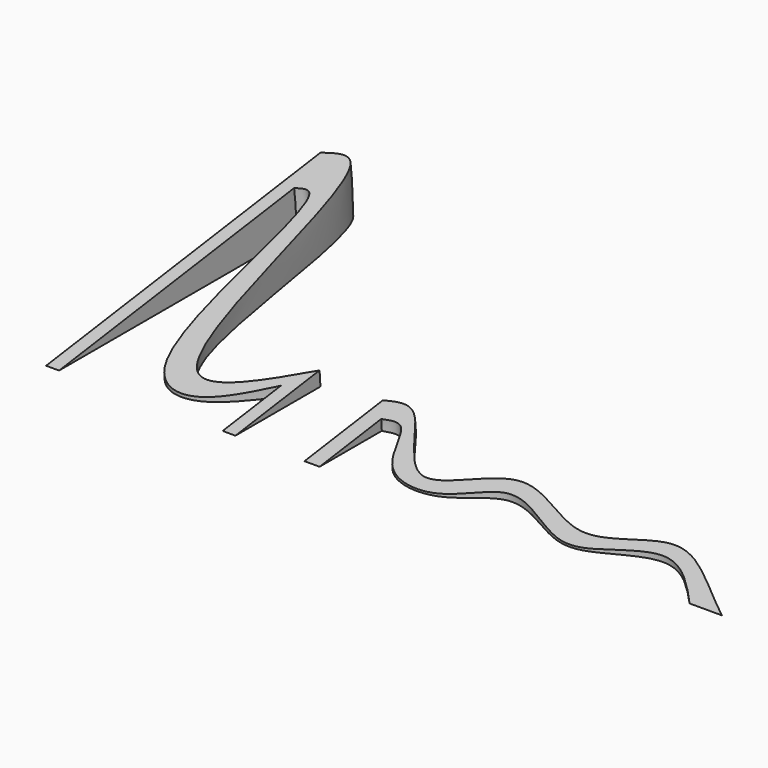
from build123d import *

# Parameters (mm, degrees)
F1_ANGLE = 8


with BuildPart() as f1:
    # F0 (on Top) → F1 (revolve)
    with BuildSketch(Plane.XY):
        with BuildLine():
            Line((-106.130216633, 104.14), (-106.130216633, 0))
            Line((-106.130216633, 0), (-49.203816998, 0))
            Line((-49.203816998, 0), (-49.203816998, 31.9050640701))
            add(Edge.make_bspline(
                [(-106.130216633, 104.14), (-102.9643185402, 105.8969464572), (-89.6113543414, 113.3766914754), (-84.0305250862, -8.3679846124), (-58.3698734514, 21.3319865039), (-49.203816998, 31.9050640701)],
                knots=[0, 0, 0, 0, 0.1680697718, 0.6984969415, 1, 1, 1, 1], degree=3))
        make_face()
    revolve(axis=Axis((34.3074197894, 0, 0), (1, 0, 0)), revolution_arc=F1_ANGLE)


with BuildPart() as f1b:
    # F0 (on Top) → F1, piece 2 (revolve)
    with BuildSketch(Plane.XY):
        with BuildLine():
            Line((-28.4549437881, 29.7769746877), (-28.4549437881, 0))
            Line((-28.4549437881, 0), (97.069783367, 0))
            add(Edge.make_bspline(
                [(-28.4549437881, 29.7769746877), (-25.505510303, 30.9630226245), (-17.5911464043, 34.1460534526), (-0.8542154461, -2.6284593328), (19.6025747873, 29.7550463826), (47.1732142173, 2.3533173939), (69.848427966, 25.6421386534), (85.1405103407, 8.7121332704), (97.069783367, 0)],
                knots=[0, 0, 0, 0, 0.1040289186, 0.2871549349, 0.4507708752, 0.6357634036, 0.799392899, 1, 1, 1, 1], degree=3))
        make_face()
    revolve(axis=Axis((34.3074197894, 0, 0), (1, 0, 0)), revolution_arc=F1_ANGLE)


with BuildPart() as f3_tool:
    # F2 (on Top) → F3 (revolve)
    with BuildSketch(Plane.XY):
        with BuildLine():
            Line((-102.2120937705, 89.1878753901), (-102.2120937705, 0))
            Line((-102.2120937705, 0), (-53.0544854701, 0))
            Line((-53.0544854701, 0), (-53.0544854701, 22.1169088036))
            add(Edge.make_bspline(
                [(-102.2120937705, 89.1878753901), (-100.5856844661, 90.0233435374), (-92.466069192, 94.1942984824), (-91.4535396277, 12.6572494157), (-66.8636821011, 3.9773143697), (-57.7547195537, 15.9427379014), (-53.0544854701, 22.1169088036)],
                knots=[0, 0, 0, 0, 0.1098398271, 0.5483595892, 0.7669530815, 1, 1, 1, 1], degree=3))
        make_face()
        with BuildLine():
            Line((-23.8931979984, 23.3666785061), (-23.8931979984, 0))
            Line((-23.8931979984, 0), (87.336294353, 0))
            add(Edge.make_bspline(
                [(-23.8931979984, 23.3666785061), (-21.8257351009, 24.013255196), (-16.2055674211, 25.7709019325), (-11.5129910845, 5.315471635), (9.1942721336, 2.6573938778), (20.5862019508, 19.2373441103), (38.6773897038, 6.5239386869), (51.1949485047, 2.7386411572), (70.4171490805, 18.3730730749), (81.5971687408, 6.2323109448), (87.336294353, 0)],
                knots=[0, 0, 0, 0, 0.0763337222, 0.2075047242, 0.3375089586, 0.4642379535, 0.5995806215, 0.7120897566, 0.852204817, 1, 1, 1, 1], degree=3))
        make_face()
    revolve(axis=Axis((31.7215481773, 0, 0), (1, 0, 0)))


with BuildPart() as f1_1:
    add(f1.part)

    # F3: cut by f3_tool
    add(f3_tool.part, mode=Mode.SUBTRACT)


with BuildPart() as f1b_1:
    add(f1b.part)

    # F3: cut by f3_tool
    add(f3_tool.part, mode=Mode.SUBTRACT)


solid = Compound([f1_1.part, f1b_1.part])
